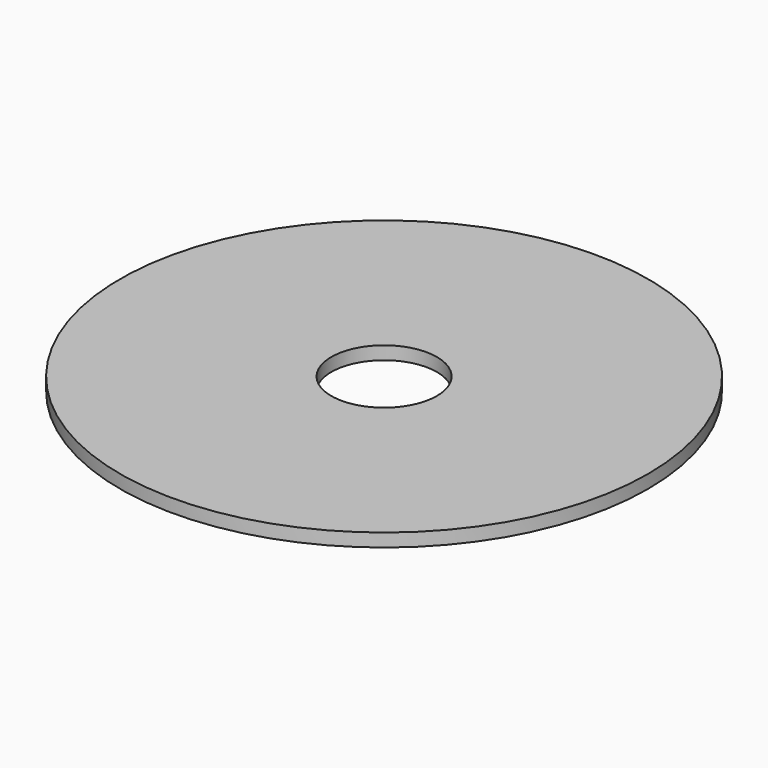
from build123d import *

# Parameters (mm, degrees)
SKETCH_R   = 10
SKETCH_R_2 = 2
PAD_DEPTH  = 0.5


with BuildPart() as part:
    # Sketch → Pad (new body)
    with BuildSketch(Plane.XY):
        Circle(SKETCH_R)
        Circle(SKETCH_R_2, mode=Mode.SUBTRACT)
    extrude(amount=PAD_DEPTH)


solid = part.part
